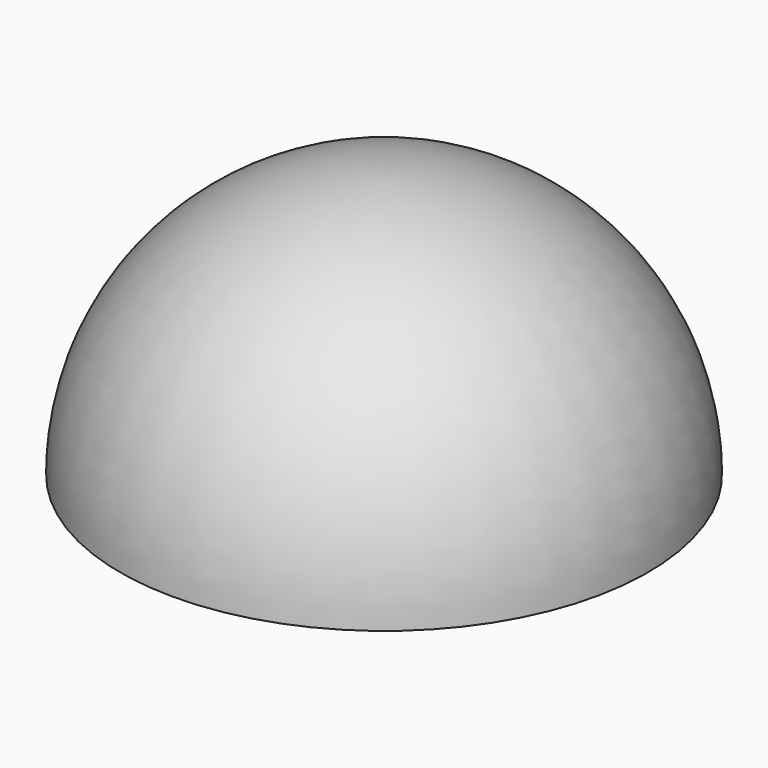
from build123d import *


with BuildPart() as f1:
    # F0 (on Right) → F1 (revolve)
    with BuildSketch(Plane.YZ):
        with BuildLine():
            Line((-76.2, 0), (0, 0))
            Line((0, 0), (0, 76.2))
            ThreePointArc((0, 76.2), (-53.881537, 53.881537), (-76.2, 0))
        make_face()
    revolve(axis=Axis((0, 0, 38.1), (0, 0, 1)))


solid = f1.part
